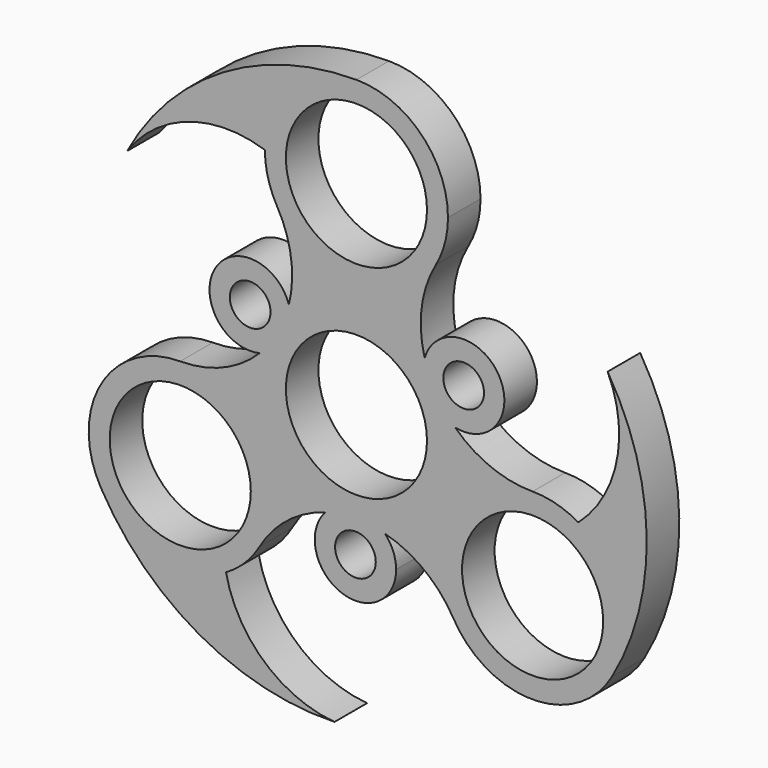
from build123d import *

# Parameters (mm, degrees)
F0_R     = 11.0109
F0_R_2   = 3.175
F1_DEPTH = 6.35


with BuildPart() as f1:
    # F0 (on Front) → F1 (new body)
    with BuildSketch(Plane.XZ):
        with BuildLine():
            ThreePointArc((12.3733379566, 24.60625), (13.8006652431, 28.0521228931), (14.2875, 31.75))
            ThreePointArc((14.2875, 31.75), (10.1027881362, 41.8527881362), (0, 46.0375))
            ThreePointArc((0, 46.0375), (-10.1027881362, 41.8527881362), (-14.2875, 31.75))
            ThreePointArc((-14.2875, 31.75), (-13.8006652431, 28.0521228931), (-12.3733379566, 24.60625))
            ThreePointArc((-12.3733379566, 24.60625), (0, 17.4625), (12.3733379566, 24.60625))
        make_face()
        with Locations((0, 31.75)):
            Circle(F0_R, mode=Mode.SUBTRACT)
        with BuildLine():
            ThreePointArc((-14.2875, 31.75), (-10.1027881362, 41.8527881362), (0, 46.0375))
            ThreePointArc((0, 46.0375), (-20.8568006936, 40.269983922), (-35.7872332561, 24.60625))
            ThreePointArc((-35.7872332561, 24.60625), (-26.2265027578, 31.7569329924), (-14.2875, 31.75))
        make_face()
        with BuildLine():
            ThreePointArc((10.6471746219, 11.2874452221), (10.1786438017, 18.1194292121), (12.3733379566, 24.60625))
            ThreePointArc((12.3733379566, 24.60625), (0, 17.4625), (-12.3733379566, 24.60625))
            ThreePointArc((-12.3733379566, 24.60625), (-10.2077366082, 18.3335066447), (-10.5388292946, 11.7057230006))
            ThreePointArc((-10.5388292946, 11.7057230006), (-10.3260856779, 10.8481793102), (-10.2344309309, 9.9694071925))
            ThreePointArc((-10.2344309309, 9.9694071925), (0.1150101412, 14.2870370937), (10.3936009423, 9.8033522686))
            ThreePointArc((10.3936009423, 9.8033522686), (10.4762468955, 10.5529407036), (10.6471746219, 11.2874452221))
        make_face()
        with BuildLine():
            ThreePointArc((23.0855388403, 9.4834715128), (17.6469627848, 15.7677221756), (10.6471746219, 11.2874452221))
            ThreePointArc((10.6471746219, 11.2874452221), (11.3765560575, 9.1599013663), (12.3733379177, 7.1437500673))
            ThreePointArc((12.3733379177, 7.1437500673), (13.7532190864, 5.1015858399), (15.4068681354, 3.274032395))
            ThreePointArc((15.4068681354, 3.274032395), (20.7283724847, 4.5458830844), (23.0855388403, 9.4834715128))
        make_face()
        with Locations((16.7355388403, 9.4834715128)):
            Circle(F0_R_2, mode=Mode.SUBTRACT)
        with BuildLine():
            ThreePointArc((12.3733379177, 7.1437500673), (11.3765560575, 9.1599013663), (10.6471746219, 11.2874452221))
            ThreePointArc((10.6471746219, 11.2874452221), (10.4762468955, 10.5529407036), (10.3936009423, 9.8033522686))
            ThreePointArc((10.3936009423, 9.8033522686), (11.4608789903, 8.531172781), (12.3733379177, 7.1437500673))
        make_face()
        with BuildLine():
            ThreePointArc((-10.2344309309, 9.9694071925), (-10.3260856779, 10.8481793102), (-10.5388292946, 11.7057230006))
            ThreePointArc((-10.5388292946, 11.7057230006), (-11.2947124555, 9.359844254), (-12.3733379294, 7.1437500471))
            ThreePointArc((-12.3733379294, 7.1437500471), (-11.3918342591, 8.6231530466), (-10.2344309309, 9.9694071925))
        make_face()
        with BuildLine():
            ThreePointArc((-12.3733379294, 7.1437500471), (-11.2947124555, 9.359844254), (-10.5388292946, 11.7057230006))
            ThreePointArc((-10.5388292946, 11.7057230006), (-22.1188173057, 12.8583877354), (-15.0988016171, 3.57700109))
            ThreePointArc((-15.0988016171, 3.57700109), (-13.620985268, 5.2724359227), (-12.3733379294, 7.1437500471))
        make_face()
        with Locations((-16.5806966663, 9.7516660253)):
            Circle(F0_R_2, mode=Mode.SUBTRACT)
        with BuildLine():
            ThreePointArc((15.4068681354, 3.274032395), (13.7532190864, 5.1015858399), (12.3733379177, 7.1437500673))
            ThreePointArc((12.3733379177, 7.1437500673), (13.1637867029, 5.5540414017), (13.7509753549, 3.8785735832))
            ThreePointArc((13.7509753549, 3.8785735832), (14.5578417064, 3.5185628636), (15.4068681354, 3.274032395))
        make_face()
        with BuildLine():
            ThreePointArc((-13.686752578, 4.0994463185), (-13.1186518214, 5.6598260255), (-12.3733379294, 7.1437500471))
            ThreePointArc((-12.3733379294, 7.1437500471), (-13.620985268, 5.2724359227), (-15.0988016171, 3.57700109))
            ThreePointArc((-15.0988016171, 3.57700109), (-14.3772381817, 3.796225596), (-13.686752578, 4.0994463185))
        make_face()
        with BuildLine():
            ThreePointArc((-13.686752578, 4.0994463185), (-14.3772381817, 3.796225596), (-15.0988016171, 3.57700109))
            ThreePointArc((-15.0988016171, 3.57700109), (-20.7812079006, -0.2447504977), (-27.4963065702, -1.5875))
            ThreePointArc((-27.4963065702, -1.5875), (-17.393518434, -5.7722118638), (-13.2088065702, -15.875))
            ThreePointArc((-13.2088065702, -15.875), (-13.6956413271, -19.5728771069), (-15.1229686136, -23.01875))
            ThreePointArc((-15.1229686136, -23.01875), (-10.7734141907, -18.0069125403), (-4.8680388409, -14.9797553955))
            ThreePointArc((-4.8680388409, -14.9797553955), (-4.2317560285, -14.3667421738), (-3.5165444239, -13.8479807757))
            ThreePointArc((-3.5165444239, -13.8479807757), (-12.4304421386, -7.0439168429), (-13.686752578, 4.0994463185))
        make_face()
        with BuildLine():
            ThreePointArc((15.4068681354, 3.274032395), (14.5578417064, 3.5185628636), (13.7509753549, 3.8785735832))
            ThreePointArc((13.7509753549, 3.8785735832), (14.1527332454, 1.9577532873), (14.2875, 0))
            ThreePointArc((14.2875, 0), (11.2067738499, -8.8623290464), (3.2931516357, -13.9027985871))
            ThreePointArc((3.2931516357, -13.9027985871), (3.9009912862, -14.3491662996), (4.4516269953, -14.8644463122))
            ThreePointArc((4.4516269953, -14.8644463122), (10.6025640989, -17.8746787144), (15.1229686136, -23.01875))
            ThreePointArc((15.1229686136, -23.01875), (15.1229686136, -8.73125), (27.4963065702, -1.5875))
            ThreePointArc((27.4963065702, -1.5875), (20.9811507989, -0.3265941045), (15.4068681354, 3.274032395))
        make_face()
        with BuildLine():
            ThreePointArc((-13.2088065702, -15.875), (-17.393518434, -5.7722118638), (-27.4963065702, -1.5875))
            ThreePointArc((-27.4963065702, -1.5875), (-39.8696445267, -8.73125), (-39.8696445267, -23.01875))
            ThreePointArc((-39.8696445267, -23.01875), (-31.1941836771, -29.6756652431), (-20.3525565702, -28.2483379566))
            ThreePointArc((-20.3525565702, -28.2483379566), (-17.393518434, -25.9777881362), (-15.1229686136, -23.01875))
            ThreePointArc((-15.1229686136, -23.01875), (-13.6956413271, -19.5728771069), (-13.2088065702, -15.875))
        make_face()
        with Locations((-27.4963065702, -15.875)):
            Circle(F0_R, mode=Mode.SUBTRACT)
        with BuildLine():
            ThreePointArc((34.6400565702, -3.5016620434), (31.1941836771, -2.0743347569), (27.4963065702, -1.5875))
            ThreePointArc((27.4963065702, -1.5875), (15.1229686136, -8.73125), (15.1229686136, -23.01875))
            ThreePointArc((15.1229686136, -23.01875), (27.4963065702, -30.1625), (39.8696445267, -23.01875))
            ThreePointArc((39.8696445267, -23.01875), (41.2969718133, -19.5728771069), (41.7838065702, -15.875))
            ThreePointArc((41.7838065702, -15.875), (39.8696445267, -8.73125), (34.6400565702, -3.5016620434))
        make_face()
        with Locations((27.4963065702, -15.875)):
            Circle(F0_R, mode=Mode.SUBTRACT)
        with BuildLine():
            ThreePointArc((-5.5e-09, -14.2875), (-1.7719524453, -14.1771943903), (-3.5165444239, -13.8479807757))
            ThreePointArc((-3.5165444239, -13.8479807757), (-4.2317560285, -14.3667421738), (-4.8680388409, -14.9797553955))
            ThreePointArc((-4.8680388409, -14.9797553955), (-2.4585066475, -14.4614300385), (-5.5e-09, -14.2875))
        make_face()
        with BuildLine():
            ThreePointArc((-20.3525565702, -28.2483379566), (-31.1941836771, -29.6756652431), (-39.8696445267, -23.01875))
            ThreePointArc((-39.8696445267, -23.01875), (-24.4464287396, -38.1975112033), (-3.4160209638, -43.2957781309))
            ThreePointArc((-3.4160209638, -43.2957781309), (-14.3890593388, -38.5912841369), (-20.3525565702, -28.2483379566))
        make_face()
        with BuildLine():
            ThreePointArc((4.4516269953, -14.8644463122), (3.9009912862, -14.3491662996), (3.2931516357, -13.9027985871))
            ThreePointArc((3.2931516357, -13.9027985871), (1.6577728159, -14.1909987506), (-5.5e-09, -14.2875))
            ThreePointArc((-5.5e-09, -14.2875), (2.2444292093, -14.4323372312), (4.4516269953, -14.8644463122))
        make_face()
        with BuildLine():
            ThreePointArc((39.2032542199, 18.6895281309), (40.6155620966, 6.8343511445), (34.6400565702, -3.5016620434))
            ThreePointArc((34.6400565702, -3.5016620434), (39.8696445267, -8.73125), (41.7838065702, -15.875))
            ThreePointArc((41.7838065702, -15.875), (41.2969718133, -19.5728771069), (39.8696445267, -23.01875))
            ThreePointArc((39.8696445267, -23.01875), (45.3032294332, -2.0724727187), (39.2032542199, 18.6895281309))
        make_face()
        with BuildLine():
            ThreePointArc((4.4516269953, -14.8644463122), (2.2444292093, -14.4323372312), (-5.5e-09, -14.2875))
            ThreePointArc((-5.5e-09, -14.2875), (-2.4585066475, -14.4614300385), (-4.8680388409, -14.9797553955))
            ThreePointArc((-4.8680388409, -14.9797553955), (-2.4345023642, -25.1618271215), (6.195157826, -19.2351375381))
            ThreePointArc((6.195157826, -19.2351375381), (5.743190516, -16.8823284962), (4.4516269953, -14.8644463122))
        make_face()
        with Locations((-0.154842174, -19.2351375381)):
            Circle(F0_R_2, mode=Mode.SUBTRACT)
        with BuildLine():
            ThreePointArc((13.7509753549, 3.8785735832), (11.2108978898, 6.3528418048), (10.3936009423, 9.8033522686))
            ThreePointArc((10.3936009423, 9.8033522686), (0.1150101412, 14.2870370937), (-10.2344309309, 9.9694071925))
            ThreePointArc((-10.2344309309, 9.9694071925), (-10.2316303011, 9.8605526184), (-10.2306966663, 9.7516660253))
            ThreePointArc((-10.2306966663, 9.7516660253), (-11.1631767097, 6.4391175321), (-13.686752578, 4.0994463185))
            ThreePointArc((-13.686752578, 4.0994463185), (-12.4304421386, -7.0439168429), (-3.5165444239, -13.8479807757))
            ThreePointArc((-3.5165444239, -13.8479807757), (-0.1037265557, -12.8853432742), (3.2931516357, -13.9027985871))
            ThreePointArc((3.2931516357, -13.9027985871), (11.2067738499, -8.8623290464), (14.2875, 0))
            ThreePointArc((14.2875, 0), (14.1527332454, 1.9577532873), (13.7509753549, 3.8785735832))
        make_face()
        Circle(F0_R, mode=Mode.SUBTRACT)
        with BuildLine():
            ThreePointArc((3.2931516357, -13.9027985871), (-0.1037265557, -12.8853432742), (-3.5165444239, -13.8479807757))
            ThreePointArc((-3.5165444239, -13.8479807757), (-1.7719524453, -14.1771943903), (-5.5e-09, -14.2875))
            ThreePointArc((-5.5e-09, -14.2875), (1.6577728159, -14.1909987506), (3.2931516357, -13.9027985871))
        make_face()
        with BuildLine():
            ThreePointArc((-10.2344309309, 9.9694071925), (-11.3918342591, 8.6231530466), (-12.3733379294, 7.1437500471))
            ThreePointArc((-12.3733379294, 7.1437500471), (-13.1186518214, 5.6598260255), (-13.686752578, 4.0994463185))
            ThreePointArc((-13.686752578, 4.0994463185), (-11.1631767097, 6.4391175321), (-10.2306966663, 9.7516660253))
            ThreePointArc((-10.2306966663, 9.7516660253), (-10.2316303011, 9.8605526184), (-10.2344309309, 9.9694071925))
        make_face()
        with BuildLine():
            ThreePointArc((13.7509753549, 3.8785735832), (13.1637867029, 5.5540414017), (12.3733379177, 7.1437500673))
            ThreePointArc((12.3733379177, 7.1437500673), (11.4608789903, 8.531172781), (10.3936009423, 9.8033522686))
            ThreePointArc((10.3936009423, 9.8033522686), (11.2108978898, 6.3528418048), (13.7509753549, 3.8785735832))
        make_face()
    extrude(amount=F1_DEPTH)


solid = f1.part
